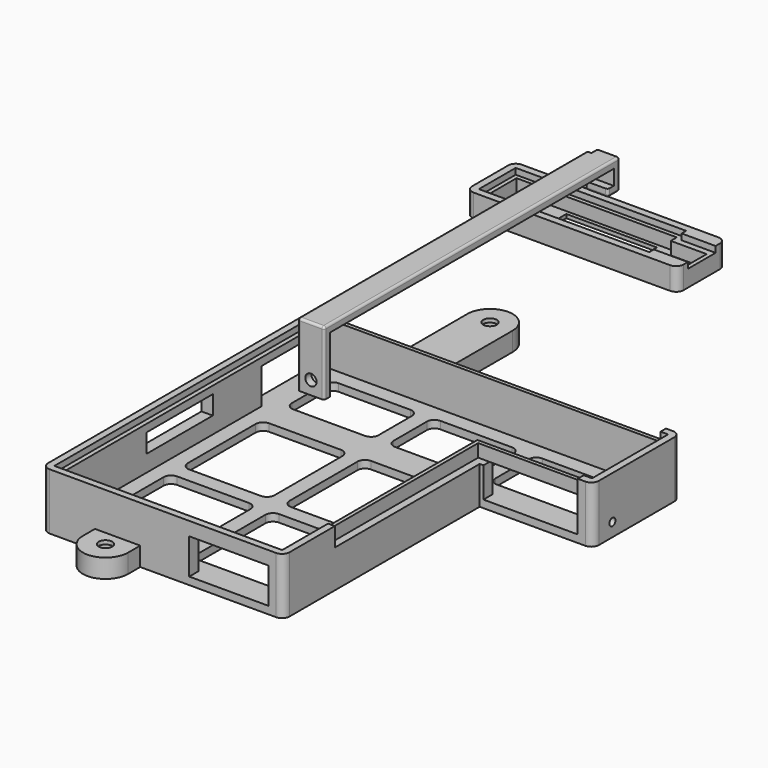
from build123d import *

# Parameters (mm, degrees)
SKETCH_W        = 58
SKETCH_H        = 16
PAD_DEPTH       = 6
POCKET_DEPTH    = 5
POCKET001_DEPTH = 1.6
SKETCH007_W     = 24
SKETCH007_H     = 8
POCKET005_DEPTH = 6.001
SKETCH011_W     = 2
SKETCH011_H     = 16
POCKET009_DEPTH = 10
FILLET_R        = 2
SKETCH004_R     = 1.8
PAD001_DEPTH    = 15
POCKET002_DEPTH = 13
POCKET003_DEPTH = 1.6
SKETCH006_R     = 4
POCKET004_DEPTH = 4
FILLET001_R     = 2
POCKET006_DEPTH = 15.001
POCKET007_DEPTH = 10
POCKET008_DEPTH = 5
SKETCH012_W     = 21
SKETCH012_H     = 9.4
POCKET010_DEPTH = 20.001
SKETCH013_W     = 25
SKETCH013_H     = 8
POCKET011_DEPTH = 10
SKETCH014_W     = 21
SKETCH014_H     = 9.4
POCKET012_DEPTH = 60
SKETCH015_W     = 22
SKETCH015_H     = 5
POCKET013_DEPTH = 20.001
SKETCH019_R     = 1
POCKET016_DEPTH = 87
PAD002_DEPTH    = 7
POCKET014_DEPTH = 1
SKETCH018_R     = 1.5
POCKET015_DEPTH = 5
FILLET002_R     = 0.6


with BuildPart() as fancontroller:
    # Sketch → Pad (new body)
    with BuildSketch(Plane.XY):
        Rectangle(SKETCH_W, SKETCH_H)
    extrude(amount=-PAD_DEPTH)

    # Sketch001 → Pocket (cut)
    with BuildSketch(Plane.XY):
        Polygon((-26, 5), (-26, -5), (16.5, -5), (16.5, -3), (26, -3), (26, 3), (16.5, 3), (16.5, 5), align=None)
    extrude(amount=-POCKET_DEPTH, mode=Mode.SUBTRACT)

    # Sketch002 → Pocket001 (cut)
    with BuildSketch(Plane.XY):
        Polygon((-27.1, 6.1), (-27.1, -6.1), (18.1, -6.1), (18.1, -4.6), (27.1, -4.6), (27.1, 4.6), (18.1, 4.6), (18.1, 6.1), align=None)
    extrude(amount=-POCKET001_DEPTH, mode=Mode.SUBTRACT)

    # Sketch007 → Pocket005 (cut, through all)
    with BuildSketch(Plane.XY):
        Rectangle(SKETCH007_W, SKETCH007_H)
    extrude(amount=-POCKET005_DEPTH, mode=Mode.SUBTRACT)

    # Sketch011 → Pocket009 (cut)
    with BuildSketch(Plane.XY):
        with Locations((28.1, 0)):
            Rectangle(SKETCH011_W, SKETCH011_H)
    extrude(amount=-POCKET009_DEPTH, mode=Mode.SUBTRACT)

    # Fillet
    fillet_edges = [fancontroller.edges().sort_by_distance(p)[0] for p in [
        (27.1, -8, -3),
        (27.1, 8, -3),
        (-29, -8, -3),
        (-29, 8, -3),
    ]]
    fillet(fillet_edges, radius=FILLET_R)


with BuildPart() as fancontroller_1:
    # Body placement: moved
    add(fancontroller.part.moved(Location((0, 100, 0))))


with BuildPart() as maincontroller:
    # Sketch004 → Pad001 (new body)
    with BuildSketch(Plane.XY):
        with BuildLine():
            Line((-20, 34.2841), (-20, -59.7159))
            Line((-20, -59.7159), (-6, -59.7159))
            Line((-6, -63.7159), (-6, -59.7159))
            ThreePointArc((-6, -63.7159), (0, -69.7159), (6, -63.7159))
            Line((6, -63.7159), (6, -59.7159))
            Line((6, -59.7159), (44, -59.7159))
            Line((44, -59.7159), (44, 5.2841))
            Line((44, 5.2841), (74, 5.2841))
            Line((74, 34.2841), (74, 5.2841))
            Line((6, 34.2841), (74, 34.2841))
            Line((6, 63.7159), (6, 34.2841))
            ThreePointArc((6, 63.7159), (0, 69.7159), (-6, 63.7159))
            Line((-6, 63.7159), (-6, 34.2841))
            Line((-6, 34.2841), (-20, 34.2841))
        make_face()
        with Locations((0, -63.7159)):
            Circle(SKETCH004_R, mode=Mode.SUBTRACT)
        with Locations((0, 63.7159)):
            Circle(SKETCH004_R, mode=Mode.SUBTRACT)
    extrude(amount=-PAD001_DEPTH)

    # Sketch005 → Pocket002 (cut)
    with BuildSketch(Plane.XY):
        Polygon((-17, 31.2841), (-17, -56.7159), (41, -56.7159), (41, 8.2841), (71, 8.2841), (71, 31.2841), align=None)
    extrude(amount=-POCKET002_DEPTH, mode=Mode.SUBTRACT)

    # Sketch003 → Pocket003 (cut)
    with BuildSketch(Plane.XY):
        Polygon((-18.2, 32.4841), (-18.2, -57.9159), (42.2, -57.9159), (42.2, 7.2841), (72.2, 7.2841), (72.2, 32.4841), align=None)
    extrude(amount=-POCKET003_DEPTH, mode=Mode.SUBTRACT)

    # Sketch006 (on Face5 of Pocket003) → Pocket004 (cut)
    with BuildSketch(Plane(origin=(0, 0, -15), x_dir=(1, 0, 0), z_dir=(0, 0, -1))):
        with Locations((0, -63.7159)):
            Circle(SKETCH006_R)
        with Locations((0, 63.7159)):
            Circle(SKETCH006_R)
    extrude(amount=-POCKET004_DEPTH, mode=Mode.SUBTRACT)

    # Fillet001
    fillet001_edges = [maincontroller.edges().sort_by_distance(p)[0] for p in [
        (-20, 34.2841, -7.5),
        (-20, -59.7159, -7.5),
        (44, -59.7159, -7.5),
        (74, 5.2841, -7.5),
        (74, 34.2841, -7.5),
    ]]
    fillet(fillet001_edges, radius=FILLET001_R)

    # Sketch008 → Pocket006 (cut, through all)
    with BuildSketch(Plane.XY):
        with BuildLine():
            Line((67, 14.2841), (67, 25.2841))
            ThreePointArc((67, 25.2841), (66.414214, 26.698314), (65, 27.2841))
            Line((43, 27.2841), (65, 27.2841))
            ThreePointArc((43, 27.2841), (41.585786, 26.698314), (41, 25.2841))
            Line((41, 25.2841), (41, 14.2841))
            ThreePointArc((41, 14.2841), (41.585786, 12.869886), (43, 12.2841))
            Line((65, 12.2841), (43, 12.2841))
            ThreePointArc((65, 12.2841), (66.414214, 12.869886), (67, 14.2841))
        make_face()
        with BuildLine():
            Line((-13, 25.2841), (-13, 14.2841))
            ThreePointArc((-13, 14.2841), (-12.414214, 12.869886), (-11, 12.2841))
            Line((-11, 12.2841), (8, 12.2841))
            ThreePointArc((8, 12.2841), (9.414214, 12.869886), (10, 14.2841))
            Line((10, 25.2841), (10, 14.2841))
            ThreePointArc((10, 25.2841), (9.414214, 26.698314), (8, 27.2841))
            Line((-11, 27.2841), (8, 27.2841))
            ThreePointArc((-11, 27.2841), (-12.414214, 26.698314), (-13, 25.2841))
        make_face()
        with BuildLine():
            Line((-11, -52.7159), (8, -52.7159))
            ThreePointArc((8, -52.7159), (9.414214, -52.130114), (10, -50.7159))
            Line((10, -50.7159), (10, -28.2159))
            ThreePointArc((10, -28.2159), (9.414214, -26.801686), (8, -26.2159))
            Line((8, -26.2159), (-11, -26.2159))
            ThreePointArc((-11, -26.2159), (-12.414214, -26.801686), (-13, -28.2159))
            Line((-13, -50.7159), (-13, -28.2159))
            ThreePointArc((-13, -50.7159), (-12.414214, -52.130114), (-11, -52.7159))
        make_face()
        with BuildLine():
            Line((35, -52.7159), (16, -52.7159))
            ThreePointArc((14, -50.7159), (14.585786, -52.130114), (16, -52.7159))
            Line((14, -28.2159), (14, -50.7159))
            ThreePointArc((16, -26.2159), (14.585786, -26.801686), (14, -28.2159))
            Line((35, -26.2159), (16, -26.2159))
            ThreePointArc((37, -28.2159), (36.414214, -26.801686), (35, -26.2159))
            Line((37, -50.7159), (37, -28.2159))
            ThreePointArc((35, -52.7159), (36.414214, -52.130114), (37, -50.7159))
        make_face()
        with BuildLine():
            Line((-11, 4.2841), (8, 4.2841))
            ThreePointArc((10, 2.2841), (9.414214, 3.698314), (8, 4.2841))
            Line((10, -20.2159), (10, 2.2841))
            ThreePointArc((8, -22.2159), (9.414214, -21.630114), (10, -20.2159))
            Line((-11, -22.2159), (8, -22.2159))
            ThreePointArc((-13, -20.2159), (-12.414214, -21.630114), (-11, -22.2159))
            Line((-13, 2.2841), (-13, -20.2159))
            ThreePointArc((-11, 4.2841), (-12.414214, 3.698314), (-13, 2.2841))
        make_face()
        with BuildLine():
            Line((35, 4.2841), (16, 4.2841))
            ThreePointArc((16, 4.2841), (14.585786, 3.698314), (14, 2.2841))
            Line((14, 2.2841), (14, -20.2159))
            ThreePointArc((14, -20.2159), (14.585786, -21.630114), (16, -22.2159))
            Line((16, -22.2159), (35, -22.2159))
            ThreePointArc((35, -22.2159), (36.414214, -21.630114), (37, -20.2159))
            Line((37, 2.2841), (37, -20.2159))
            ThreePointArc((37, 2.2841), (36.414214, 3.698314), (35, 4.2841))
        make_face()
        with BuildLine():
            Line((35, 12.2841), (16, 12.2841))
            ThreePointArc((14, 14.2841), (14.585786, 12.869886), (16, 12.2841))
            Line((14, 14.2841), (14, 25.2841))
            ThreePointArc((16, 27.2841), (14.585786, 26.698314), (14, 25.2841))
            Line((16, 27.2841), (35, 27.2841))
            ThreePointArc((37, 25.2841), (36.414214, 26.698314), (35, 27.2841))
            Line((37, 25.2841), (37, 14.2841))
            ThreePointArc((35, 12.2841), (36.414214, 12.869886), (37, 14.2841))
        make_face()
    extrude(amount=-POCKET006_DEPTH, mode=Mode.SUBTRACT)

    # Sketch009 → Pocket007 (cut)
    with BuildSketch(Plane.XY):
        with BuildLine():
            Line((-6, -63.7159), (-6, -59.7159))
            Line((-6, -59.7159), (6, -59.7159))
            Line((6, -63.7159), (6, -59.7159))
            ThreePointArc((-6, -63.7159), (0, -69.7159), (6, -63.7159))
        make_face()
        with BuildLine():
            ThreePointArc((6, 63.7159), (-1.6e-05, 69.7159), (-6, 63.715869))
            Line((-6, 63.715869), (-6, 34.2841))
            Line((-6, 34.2841), (6, 34.2841))
            Line((6, 63.7159), (6, 34.2841))
        make_face()
    extrude(amount=-POCKET007_DEPTH, mode=Mode.SUBTRACT)

    # Sketch010 → Pocket008 (cut)
    with BuildSketch(Plane.XY):
        Polygon((70.2, 32.4841), (70.2, 34.4841), (-16.2, 34.4841), (-16.2, 32.4841), (-16.2, 32.2841), (70.2, 32.2841), align=None)
        Polygon((70, 7.2841), (42.2, 7.2841), (42, 7.2841), (42, -42.7159), (42.2, -42.7159), (70, -42.7159), align=None)
    extrude(amount=-POCKET008_DEPTH, mode=Mode.SUBTRACT)

    # Sketch012 → Pocket010 (cut, through all)
    with BuildSketch(Plane.YZ):
        with Locations((19.7841, -8.3)):
            Rectangle(SKETCH012_W, SKETCH012_H)
    extrude(amount=-POCKET010_DEPTH, mode=Mode.SUBTRACT)

    # Sketch013 → Pocket011 (cut)
    with BuildSketch(Plane.XZ):
        with Locations((57.5, -9)):
            Rectangle(SKETCH013_W, SKETCH013_H)
    extrude(amount=-POCKET011_DEPTH, mode=Mode.SUBTRACT)

    # Sketch014 → Pocket012 (cut)
    with BuildSketch(Plane.XZ):
        with Locations((29.5, -8.3)):
            Rectangle(SKETCH014_W, SKETCH014_H)
    extrude(amount=POCKET012_DEPTH, mode=Mode.SUBTRACT)

    # Sketch015 → Pocket013 (cut, through all)
    with BuildSketch(Plane.YZ):
        with Locations((-17.9159, -6.1)):
            Rectangle(SKETCH015_W, SKETCH015_H)
    extrude(amount=-POCKET013_DEPTH, mode=Mode.SUBTRACT)

    # Sketch019 → Pocket016 (cut)
    with BuildSketch(Plane.YZ):
        with Locations((11.7841, -11.429286)):
            Circle(SKETCH019_R)
    extrude(amount=POCKET016_DEPTH, mode=Mode.SUBTRACT)


with BuildPart() as maincontrollerbrace:
    # Sketch016 → Pad002 (new body)
    with BuildSketch(Plane.YZ):
        Polygon((0, 0), (0, 15), (0, 17), (2, 17), (96, 17), (98, 17), (98, 9), (94, 9), (94, 11), (96, 11), (96, 15), (2, 15), (2, 0), align=None)
    extrude(amount=PAD002_DEPTH)

    # Sketch017 → Pocket014 (cut)
    with BuildSketch(Plane.YZ):
        Polygon((94, 11), (94, 9), (98, 9), (98, 17), (96, 17), (96, 11), align=None)
    extrude(amount=POCKET014_DEPTH, mode=Mode.SUBTRACT)

    # Sketch018 → Pocket015 (cut)
    with BuildSketch(Plane.XZ):
        with Locations((3.5, 3.570714)):
            Circle(SKETCH018_R)
    extrude(amount=-POCKET015_DEPTH, mode=Mode.SUBTRACT)

    # Fillet002
    fillet002_edges = [maincontrollerbrace.edges().sort_by_distance(p)[0] for p in [
        (0, 48, 17),
        (0, 0, 8.5),
        (3.5, 0, 17),
        (7, 0, 8.5),
        (7, 49, 17),
        (7, 98, 13),
        (4, 98, 9),
        (1, 98, 13),
        (1, 97, 17),
        (0.5, 96, 17),
        (7, 96, 9),
        (1, 96, 9),
        (4, 94, 9),
        (7, 94, 10),
        (1, 94, 10),
        (4, 98, 17),
        (0, 96, 16),
    ]]
    fillet(fillet002_edges, radius=FILLET002_R)


solid = Compound([fancontroller_1.part, maincontroller.part, maincontrollerbrace.part])
